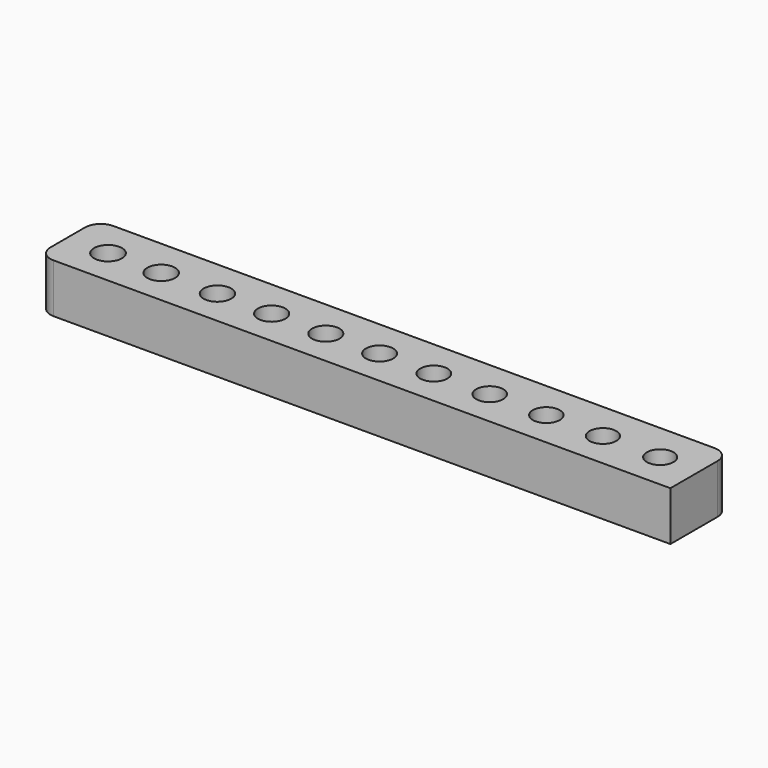
from build123d import *

# Parameters (mm, degrees)
F0_R     = 1.135
F0_R_2   = 1.13
F0_R_3   = 1.125
F0_R_4   = 1.12
F0_R_5   = 1.115
F0_R_6   = 1.11
F0_R_7   = 1.105
F0_R_8   = 1.1
F0_R_9   = 1.095
F0_R_10  = 1.09
F0_R_11  = 1.085
F1_DEPTH = 4


with BuildPart() as f1:
    # F0 (on Top) → F1 (new body)
    with BuildSketch(Plane.XY):
        with BuildLine():
            Line((24.731134, 3.134596), (-24.169983, 3.134596))
            ThreePointArc((-24.169983, 3.134596), (-25.068009, 2.762621), (-25.439983, 1.864596))
            Line((-25.439983, 1.864596), (-25.439983, -1.661713))
            ThreePointArc((-25.439983, -1.661713), (-25.068009, -2.559739), (-24.169983, -2.931713))
            Line((-24.169983, -2.931713), (26.001134, -2.931713))
            Line((26.001134, -2.931713), (26.001134, 1.864596))
            ThreePointArc((26.001134, 1.864596), (25.62916, 2.762621), (24.731134, 3.134596))
        make_face()
        with Locations((-22.08424, 0)):
            Circle(F0_R, mode=Mode.SUBTRACT)
        with Locations((-17.760683, 0)):
            Circle(F0_R_2, mode=Mode.SUBTRACT)
        with Locations((-13.18608, 0)):
            Circle(F0_R_3, mode=Mode.SUBTRACT)
        with Locations((-8.778842, 0)):
            Circle(F0_R_4, mode=Mode.SUBTRACT)
        with Locations((-4.371603, 0)):
            Circle(F0_R_5, mode=Mode.SUBTRACT)
        Circle(F0_R_6, mode=Mode.SUBTRACT)
        with Locations((4.41498, 0)):
            Circle(F0_R_7, mode=Mode.SUBTRACT)
        with Locations((8.961688, 0)):
            Circle(F0_R_8, mode=Mode.SUBTRACT)
        with Locations((13.564184, 0)):
            Circle(F0_R_9, mode=Mode.SUBTRACT)
        with Locations((18.16668, 0)):
            Circle(F0_R_10, mode=Mode.SUBTRACT)
        with Locations((22.824964, 0)):
            Circle(F0_R_11, mode=Mode.SUBTRACT)
    extrude(amount=F1_DEPTH)


solid = f1.part
